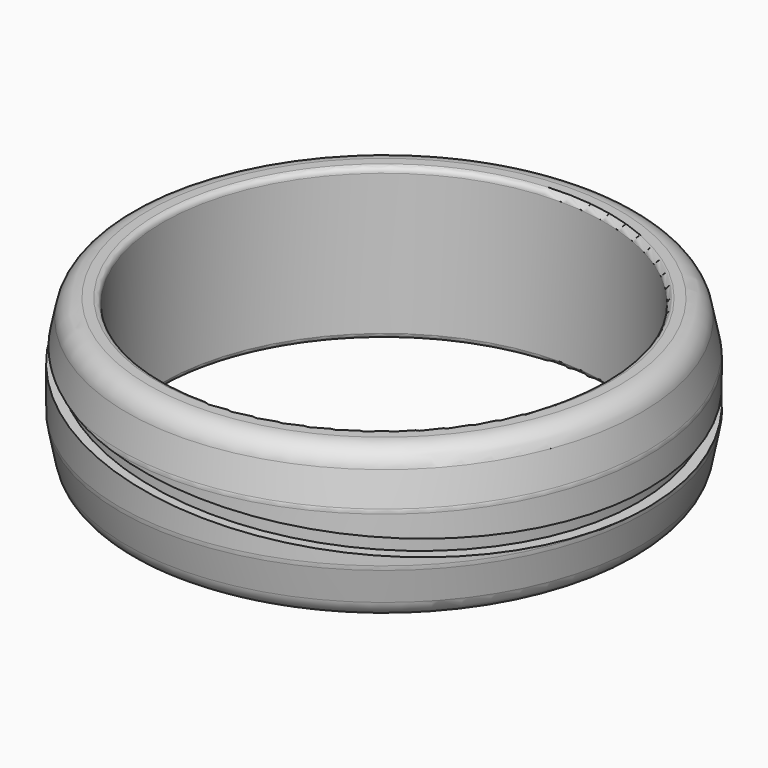
from build123d import *

# Parameters (mm, degrees)
F3_R     = 11.75
F5_DEPTH = 0.75
F2_R     = 18.1470501703
F7_ANGLE = 5


with BuildPart() as f1:
    # F0 (on Front) → F1 (revolve)
    with BuildSketch(Plane.XZ):
        with BuildLine():
            Line((0, 3.25), (0, 0))
            Line((0, 0), (0, -3.25))
            ThreePointArc((0, -3.25), (0.0732233047, -3.4267766953), (0.25, -3.5))
            Line((0.25, -3.5), (0.6801960973, -3.5))
            ThreePointArc((0.6801960973, -3.5), (1.3141850029, -3.2733421413), (1.660776773, -2.6961161351))
            Line((1.660776773, -2.6961161351), (1.9509344755, -1.2453276227))
            ThreePointArc((1.9509344755, -1.2453276227), (1.9654871264, -1.1477491056), (1.9703537998, -1.0492114876))
            Line((1.9703537998, -1.0492114876), (1.9703537998, 0))
            Line((1.9703537998, 0), (1.9703537998, 1.0492114876))
            ThreePointArc((1.9703537998, 1.0492114876), (1.9654871264, 1.1477491056), (1.9509344755, 1.2453276227))
            Line((1.9509344755, 1.2453276227), (1.660776773, 2.6961161351))
            ThreePointArc((1.660776773, 2.6961161351), (1.3141850029, 3.2733421413), (0.6801960973, 3.5))
            Line((0.6801960973, 3.5), (0.25, 3.5))
            ThreePointArc((0.25, 3.5), (0.0732233047, 3.4267766953), (0, 3.25))
        make_face()
    revolve(axis=Axis((-10.2, 0, 1.7540712142), (0, 0, 1)))


with BuildPart() as f5:
    # F3 (on Top) → F5 (new body)
    with BuildSketch(Plane.XY):
        with Locations((-10.2, 0)):
            Circle(F3_R)
    extrude(amount=F5_DEPTH)


with BuildPart() as f5b:
    # F2 (on Top) → F5, piece 2 (new body)
    with BuildSketch(Plane.XY):
        with Locations((-10.076363571, 0)):
            Circle(F2_R)
    extrude(amount=F5_DEPTH)

    # F6: cut F5
    add(f5.part, mode=Mode.SUBTRACT)


with BuildPart() as f5b_1:
    # F7: moved
    add(f5b.part.rotate(Axis((-10.0247794762, 17.2923859209, 0), (0, 1, 0)), F7_ANGLE))


with BuildPart() as f1_1:
    add(f1.part)

    # F8: cut F5b
    add(f5b_1.part, mode=Mode.SUBTRACT)


solid = f1_1.part
